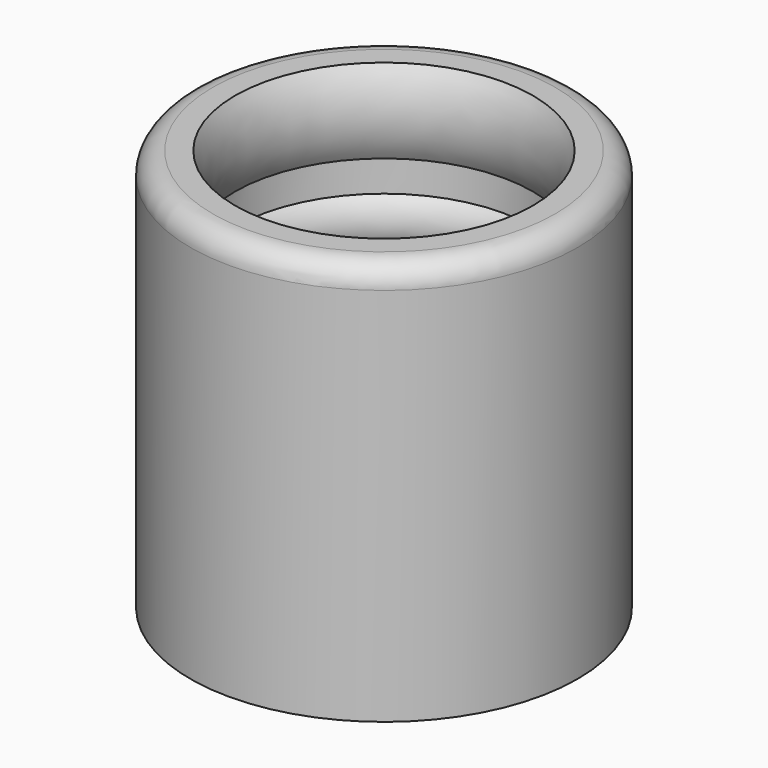
from build123d import *

# Parameters (mm, degrees)
F2_R = 3


with BuildPart() as f1:
    # F0 (on Front) → F1 (revolve)
    with BuildSketch(Plane.XZ):
        with BuildLine():
            ThreePointArc((-20, 52.662842), (-18.333853, 58.331421), (-20, 64))
            Line((-20, 64), (-26, 64))
            Line((-26, 64), (-26, 10))
            Line((-26, 10), (-20, 10))
            Line((-20, 10), (-20, 22.722758))
            ThreePointArc((-20, 22.722758), (-18.82131, 25.840918), (-20, 28.959077))
            Line((-20, 28.959077), (-20, 41.979928))
            ThreePointArc((-20, 41.979928), (-18.710805, 45.238344), (-20, 48.49676))
            Line((-20, 48.49676), (-20, 52.662842))
        make_face()
    revolve(axis=Axis((0, 0, 15.521475), (0, 0, -1)))

    # F2
    f2_edges = [f1.edges().sort_by_distance(p)[0] for p in [
        (26, 0, 64),
    ]]
    fillet(f2_edges, radius=F2_R)


solid = f1.part
